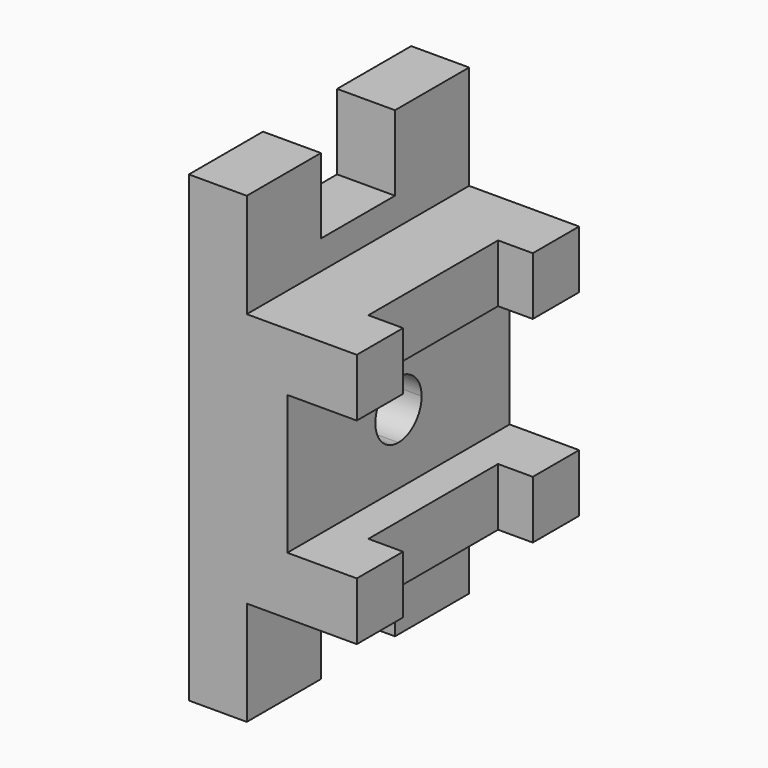
from build123d import *

# Parameters (mm, degrees)
F1_DEPTH = 31.75
F2_DEPTH = 53.975
F0_W     = 44.45
F0_H     = 31.75
F3_DEPTH = 73.025
F0_W_2   = 31.75
F4_DEPTH = 92.075


with BuildPart() as f1:
    # F0 (on Right) → F1 (new body)
    with BuildSketch(Plane.YZ):
        Polygon((-76.2, 212.725), (-76.2, 155.575), (-44.45, 155.575), (0, 155.575), (0, 171.45), (-25.4, 171.45), (-25.4, 212.725), align=None)
        Polygon((0, 171.45), (0, 155.575), (44.45, 155.575), (76.2, 155.575), (76.2, 212.725), (25.4, 212.725), (25.4, 171.45), align=None)
    extrude(amount=F1_DEPTH)



with BuildPart() as f1b:
    # F0 (on Right) → F1, piece 2 (new body)
    with BuildSketch(Plane.YZ):
        Polygon((-44.45, 15.875), (-76.2, 15.875), (-76.2, -41.275), (-25.4, -41.275), (-25.4, 0), (0, 0), (0, 15.875), align=None)
        Polygon((44.45, 15.875), (0, 15.875), (0, 0), (25.4, 0), (25.4, -41.275), (76.2, -41.275), (76.2, 15.875), align=None)
    extrude(amount=F1_DEPTH)


with BuildPart() as f2:
    # F0 (on Right) → F2 (new body)
    with BuildSketch(Plane.YZ):
        with BuildLine():
            Line((-76.2, 123.825), (-76.2, 85.725))
            Line((-76.2, 85.725), (-15.875, 85.725))
            ThreePointArc((-15.875, 85.725), (-11.2253201513, 96.9503201513), (0, 101.6))
            Line((0, 101.6), (0, 123.825))
            Line((0, 123.825), (-44.45, 123.825))
            Line((-44.45, 123.825), (-76.2, 123.825))
        make_face()
        with BuildLine():
            Line((0, 123.825), (0, 101.6))
            ThreePointArc((0, 101.6), (11.2253201513, 96.9503201513), (15.875, 85.725))
            Line((15.875, 85.725), (76.2, 85.725))
            Line((76.2, 85.725), (76.2, 123.825))
            Line((76.2, 123.825), (44.45, 123.825))
            Line((44.45, 123.825), (0, 123.825))
        make_face()
        with BuildLine():
            ThreePointArc((15.875, 85.725), (11.2253201513, 74.4996798487), (0, 69.85))
            Line((0, 69.85), (0, 47.625))
            Line((0, 47.625), (44.45, 47.625))
            Line((44.45, 47.625), (76.2, 47.625))
            Line((76.2, 47.625), (76.2, 85.725))
            Line((76.2, 85.725), (15.875, 85.725))
        make_face()
        with BuildLine():
            Line((-15.875, 85.725), (-76.2, 85.725))
            Line((-76.2, 85.725), (-76.2, 47.625))
            Line((-76.2, 47.625), (-44.45, 47.625))
            Line((-44.45, 47.625), (0, 47.625))
            Line((0, 47.625), (0, 69.85))
            ThreePointArc((0, 69.85), (-11.2253201513, 74.4996798487), (-15.875, 85.725))
        make_face()
    extrude(amount=F2_DEPTH)


with BuildPart() as f1_1:
    add(f1.part)

    add(f1b.part)  # F3 merges F1b

    add(f2.part)  # F3 merges F2
    # F0 (on Right) → F3 (join)
    with BuildSketch(Plane.YZ):
        with Locations((-22.225, 139.7)):
            Rectangle(F0_W, F0_H)
        with Locations((22.225, 139.7)):
            Rectangle(F0_W, F0_H)
        with Locations((-22.225, 31.75)):
            Rectangle(F0_W, F0_H)
        with Locations((22.225, 31.75)):
            Rectangle(F0_W, F0_H)
    extrude(amount=F3_DEPTH)

    # F0 (on Right) → F4 (join)
    with BuildSketch(Plane.YZ):
        with Locations((-60.325, 139.7)):
            Rectangle(F0_W_2, F0_H)
        with Locations((60.325, 139.7)):
            Rectangle(F0_W_2, F0_H)
        with Locations((-60.325, 31.75)):
            Rectangle(F0_W_2, F0_H)
        with Locations((60.325, 31.75)):
            Rectangle(F0_W_2, F0_H)
    extrude(amount=F4_DEPTH)


solid = f1_1.part
